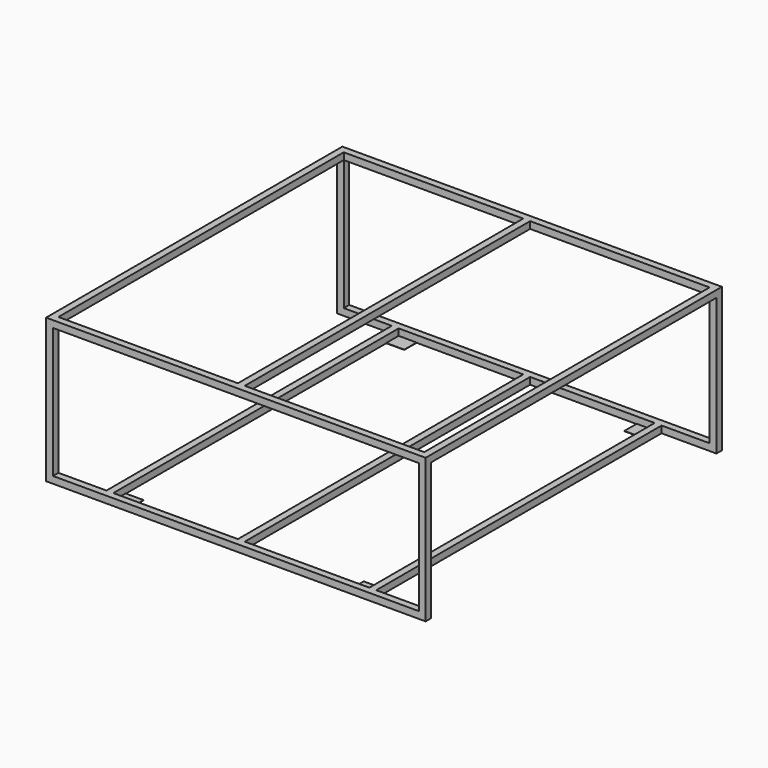
from build123d import *

# Parameters (mm, degrees)
F1_DEPTH  = 38.1
F4_W      = 38.1
F4_H      = 38.1
F5_DEPTH  = 2032
F7_W      = 38.1
F7_H      = 38.1
F7_W_2    = 38.1000000005
F8_DEPTH  = 2019.3
F9_W      = 100.0125
F9_H      = 85.725
F10_DEPTH = 1.524


with BuildPart() as f1:
    # F0 (on Right) → F1 (new body)
    with BuildSketch(Plane.YZ):
        Polygon((990.6, 762), (990.6, 0), (1028.7, 0), (1028.7, 800.1), (0, 800.1), (-1028.7, 800.1), (-1028.7, 0), (-990.6, 0), (-990.6, 762), (0, 762), align=None)
    extrude(amount=F1_DEPTH)


with BuildPart() as f3_1:
    # F3: instance of F1
    add(f1.part.mirror(Plane.YZ.offset(-1016)))


with BuildPart() as f1_1:
    add(f1.part)

    add(f3_1.part)  # F5 merges F3_1
    # F4 (on Right) → F5 (join, through all)
    with BuildSketch(Plane.YZ):
        with Locations((1009.65, 781.05)):
            Rectangle(F4_W, F4_H)
        with Locations((-1009.65, 781.05)):
            Rectangle(F4_W, F4_H)
        with Locations((-1009.65, 19.05)):
            Rectangle(F4_W, F4_H)
        with Locations((1009.65, 19.05)):
            Rectangle(F4_W, F4_H)
    extrude(amount=-F5_DEPTH)

    # F7 (on offset) → F8 (join, through all)
    with BuildSketch(Plane.XZ.offset(1028.7)):
        with Locations((-285.75, 19.05)):
            Rectangle(F7_W, F7_H)
        with Locations((-1016.0000000002, 781.05)):
            Rectangle(F7_W_2, F7_H)
        with Locations((-1746.25, 19.05)):
            Rectangle(F7_W, F7_H)
        with Locations((-1016, 19.05)):
            Rectangle(F7_W, F7_H)
    extrude(amount=-F8_DEPTH)

    # F9 (on Top) → F10 (join)
    with BuildSketch(Plane.XY):
        with Locations((-1677.19375, -947.7375)):
            Rectangle(F9_W, F9_H)
        with Locations((-1677.19375, 947.7375)):
            Rectangle(F9_W, F9_H)
        with Locations((-354.80625, -947.7375)):
            Rectangle(F9_W, F9_H)
        with Locations((-354.80625, 947.7375)):
            Rectangle(F9_W, F9_H)
    extrude(amount=F10_DEPTH)


solid = f1_1.part
